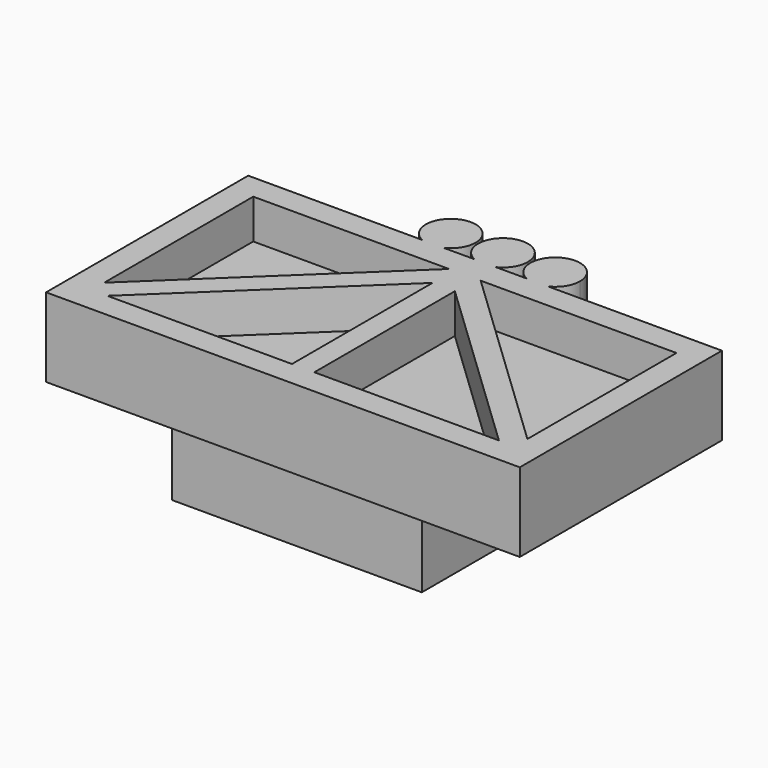
from build123d import *

# Parameters (mm, degrees)
F1_DEPTH  = 3.175
F2_W      = 17.018
F2_H      = 8.128
F3_DEPTH  = 1.5875
F5_DEPTH  = 1.5875
F6_W      = 10.05
F6_H      = 8.76
F7_DEPTH  = 3
F8_R      = 3.5
F9_DEPTH  = 3.5
F11_DEPTH = 1.5875


with BuildPart() as f1:
    # F0 (on Top) → F1 (new body)
    with BuildSketch(Plane.XY):
        with BuildLine():
            Line((-12.0608898944, 10.16), (-19.05, 10.16))
            Line((-19.05, 10.16), (-19.05, 0))
            Line((-19.05, 0), (0, 0))
            Line((0, 0), (0, 10.16))
            Line((0, 10.16), (-6.9891101056, 10.16))
            ThreePointArc((-6.9891101056, 10.16), (-7.425, 10.06), (-7.8608898944, 10.16))
            Line((-7.8608898944, 10.16), (-9.0891101056, 10.16))
            ThreePointArc((-9.0891101056, 10.16), (-9.525, 10.06), (-9.9608898944, 10.16))
            Line((-9.9608898944, 10.16), (-11.1891101056, 10.16))
            ThreePointArc((-11.1891101056, 10.16), (-11.625, 10.06), (-12.0608898944, 10.16))
        make_face()
        with BuildLine():
            ThreePointArc((-10.625, 11.06), (-12.1560885546, 11.9073163206), (-12.0608898944, 10.16))
            Line((-12.0608898944, 10.16), (-11.1891101056, 10.16))
            ThreePointArc((-11.1891101056, 10.16), (-10.7776836794, 10.5289114454), (-10.625, 11.06))
        make_face()
        with BuildLine():
            Line((-11.1891101056, 10.16), (-12.0608898944, 10.16))
            ThreePointArc((-12.0608898944, 10.16), (-11.625, 10.06), (-11.1891101056, 10.16))
        make_face()
        with BuildLine():
            ThreePointArc((-8.525, 11.06), (-10.0560885546, 11.9073163206), (-9.9608898944, 10.16))
            Line((-9.9608898944, 10.16), (-9.0891101056, 10.16))
            ThreePointArc((-9.0891101056, 10.16), (-8.6776836794, 10.5289114454), (-8.525, 11.06))
        make_face()
        with BuildLine():
            Line((-9.0891101056, 10.16), (-9.9608898944, 10.16))
            ThreePointArc((-9.9608898944, 10.16), (-9.525, 10.06), (-9.0891101056, 10.16))
        make_face()
        with BuildLine():
            ThreePointArc((-7.8608898944, 10.16), (-7.425, 10.06), (-6.9891101056, 10.16))
            Line((-6.9891101056, 10.16), (-7.8608898944, 10.16))
        make_face()
        with BuildLine():
            Line((-7.8608898944, 10.16), (-6.9891101056, 10.16))
            ThreePointArc((-6.9891101056, 10.16), (-6.5776836794, 10.5289114454), (-6.425, 11.06))
            ThreePointArc((-6.425, 11.06), (-7.9560885546, 11.9073163206), (-7.8608898944, 10.16))
        make_face()
    extrude(amount=F1_DEPTH)

    # F2 (on face) → F3 (cut)
    with BuildSketch(Plane.XY.offset(3.175)):
        with Locations((-9.525, 5.08)):
            Rectangle(F2_W, F2_H)
    extrude(amount=-F3_DEPTH, mode=Mode.SUBTRACT)

    # F4 (on face) → F5 (join, through all)
    with BuildSketch(Plane.XY.offset(1.5875)):
        Polygon((-9.525, 8.5074082457), (-9.525, 9.144), (-10.1615917543, 9.144), (-18.034, 1.6525917543), (-18.034, 1.016), (-17.3974082457, 1.016), (-9.825, 8.2219273099), align=None)
        Polygon((-8.8884082457, 9.144), (-9.525, 9.144), (-9.525, 8.5074082457), (-9.225, 8.2219273099), (-1.6525917543, 1.016), (-1.016, 1.016), (-1.016, 1.6525917543), align=None)
    extrude(amount=F5_DEPTH)

    # F6 (on face) → F7 (join)
    with BuildSketch(Plane(origin=(0, 0, 0), x_dir=(1, 0, 0), z_dir=(0, 0, -1))):
        with Locations((-9.525, -5.08)):
            Rectangle(F6_W, F6_H)
    extrude(amount=F7_DEPTH)

    # F8 (on face) → F9 (cut)
    with BuildSketch(Plane(origin=(0, 0, -3), x_dir=(1, 0, 0), z_dir=(0, 0, -1))):
        with Locations((-9.525, -5.08)):
            Circle(F8_R)
    extrude(amount=-F9_DEPTH, mode=Mode.SUBTRACT)

    # F10 (on face) → F11 (join, through all)
    with BuildSketch(Plane.XY.offset(1.5875)):
        Polygon((-9.525, 8.5074082457), (-9.975, 8.0791868419), (-9.975, 1.016), (-9.525, 1.016), (-9.075, 1.016), (-9.075, 8.0791868419), align=None)
    extrude(amount=F11_DEPTH)


solid = f1.part
